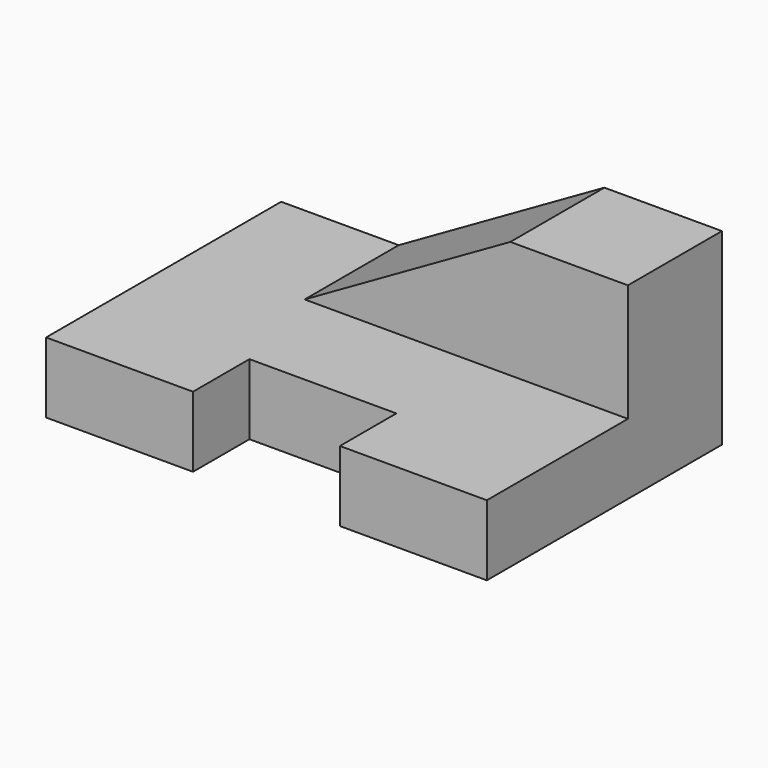
from build123d import *

# Parameters (mm, degrees)
F1_DEPTH = 12
F2_W     = 55
F2_H     = 20
F3_DEPTH = 20
F5_DEPTH = 25


with BuildPart() as f1:
    # F0 (on Top) → F1 (new body)
    with BuildSketch(Plane.XY):
        Polygon((37.5, 25), (-37.5, 25), (-37.5, -25), (-12.5, -25), (-12.5, -13), (12.5, -13), (12.5, -25), (37.5, -25), align=None)
    extrude(amount=F1_DEPTH)

    # F2 (on face) → F3 (join)
    with BuildSketch(Plane.XY.offset(12)):
        with Locations((10, 15)):
            Rectangle(F2_W, F2_H)
    extrude(amount=F3_DEPTH)

    # F4 (on face) → F5 (cut)
    with BuildSketch(Plane.XZ.offset(-5)):
        Polygon((-17.5, 12), (17.5, 32), (-17.5, 32), align=None)
    extrude(amount=-F5_DEPTH, mode=Mode.SUBTRACT)


solid = f1.part
